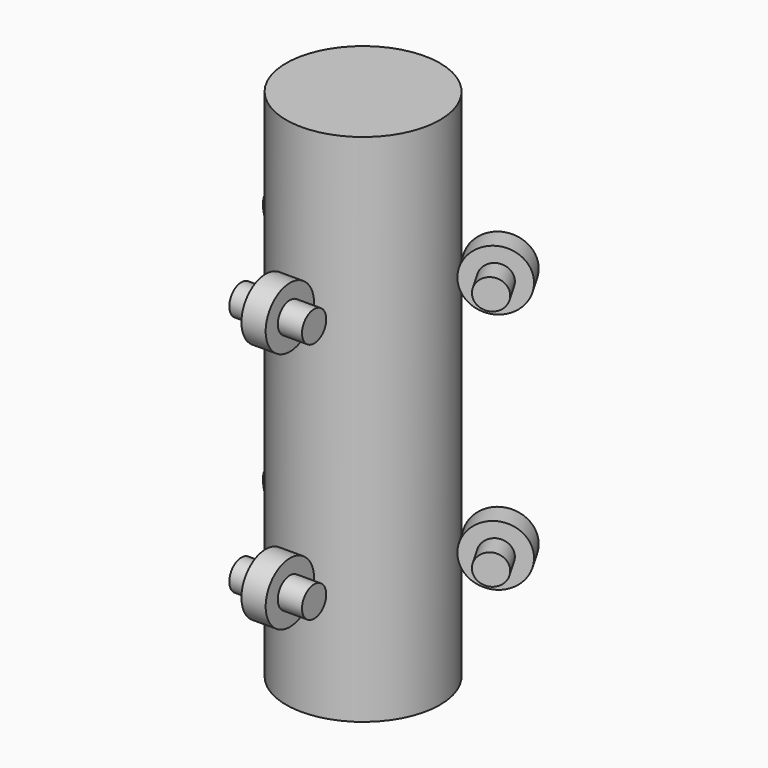
from build123d import *

# Parameters (mm, degrees)
F0_R          = 5
F0_R_2        = 2.5
F1_DEPTH      = 2
F2_DEPTH      = 6
F5_COUNT      = 3
F3_R          = 12.7
F7_DEPTH      = 25
F7_DEPTH_BACK = 60


with BuildPart() as f1:
    # F0 (on Right) → F1 (new body, symmetric)
    with BuildSketch(Plane.YZ):
        Circle(F0_R)
        Circle(F0_R_2, mode=Mode.SUBTRACT)
    extrude(amount=F1_DEPTH, both=True)

    # F0 (on Right) → F2 (join, symmetric)
    with BuildSketch(Plane.YZ):
        Circle(F0_R_2)
    extrude(amount=F2_DEPTH, both=True)


with BuildPart() as f1_1:
    # F4: moved
    add(f1.part.moved(Location((0, -17.6, 0))))


with BuildPart() as f5_1:
    # F5: instance of F1
    add(f1_1.part.rotate(Axis((0, 0, 0), (0, 0, 1)), 1 * 360 / F5_COUNT))


with BuildPart() as f5_2:
    # F5: instance of F1
    add(f1_1.part.rotate(Axis((0, 0, 0), (0, 0, 1)), 2 * 360 / F5_COUNT))


with BuildPart() as f6_1:
    # F6: copy of F1
    add(f1_1.part.moved(Location((0, 0, -40))))


with BuildPart() as f6_2:
    # F6: copy of F5_1
    add(f5_1.part.moved(Location((0, 0, -40))))


with BuildPart() as f6_3:
    # F6: copy of F5_2
    add(f5_2.part.moved(Location((0, 0, -40))))


with BuildPart() as f7:
    # F3 (on Top) → F7 (new body, two sides)
    with BuildSketch(Plane.XY) as f7_sk:
        Circle(F3_R)
    extrude(amount=F7_DEPTH)
    extrude(f7_sk.sketch, amount=-F7_DEPTH_BACK)


solid = Compound([f1_1.part, f5_1.part, f5_2.part, f6_1.part, f6_2.part, f6_3.part, f7.part])
